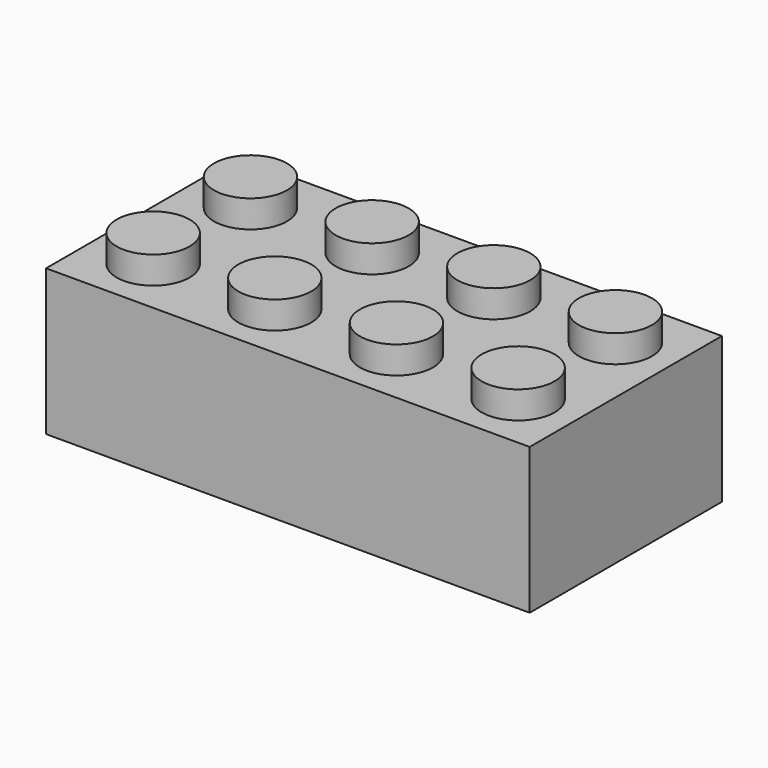
from build123d import *

# Parameters (mm, degrees)
F0_W     = 31.800013
F0_H     = 15.799999
F1_DEPTH = 9.600006
F2_R     = 2.399995
F3_DEPTH = 1.799999
F4_W     = 29.400012
F4_H     = 13.399999
F4_R     = 3.255
F4_R_2   = 2.399995
F5_DEPTH = 8.600006


with BuildPart() as f1:
    # F0 (on Top) → F1 (new body)
    with BuildSketch(Plane.XY):
        with Locations((15.900006, -7.899999)):
            Rectangle(F0_W, F0_H)
    extrude(amount=-F1_DEPTH)

    # F2 (on Top) → F3 (join)
    with BuildSketch(Plane.XY):
        with Locations((3.999992, -4.000005)):
            Circle(F2_R)
        with Locations((12.000001, -4.000005)):
            Circle(F2_R)
        with Locations((20.000011, -4.000005)):
            Circle(F2_R)
        with Locations((28.00002, -4.000005)):
            Circle(F2_R)
        with Locations((28.00002, -12.000014)):
            Circle(F2_R)
        with Locations((20.000011, -12.000014)):
            Circle(F2_R)
        with Locations((12.000001, -12.000014)):
            Circle(F2_R)
        with Locations((3.999992, -12.000014)):
            Circle(F2_R)
    extrude(amount=F3_DEPTH)

    # F4 (on face) → F5 (cut)
    with BuildSketch(Plane(origin=(0, 0, -9.600006), x_dir=(1, 0, 0), z_dir=(0, 0, -1))):
        with Locations((15.900006, 7.899999)):
            Rectangle(F4_W, F4_H)
        with Locations((7.312597, 8.064775)):
            Circle(F4_R, mode=Mode.SUBTRACT)
        with Locations((15.900006, 8.064775)):
            Circle(F4_R, mode=Mode.SUBTRACT)
        with Locations((24.547525, 8.064775)):
            Circle(F4_R, mode=Mode.SUBTRACT)
        with Locations((7.312597, 8.064775)):
            Circle(F4_R_2)
        with Locations((15.900006, 8.064775)):
            Circle(F4_R_2)
        with Locations((24.547525, 8.064775)):
            Circle(F4_R_2)
    extrude(amount=-F5_DEPTH, mode=Mode.SUBTRACT)


solid = f1.part
